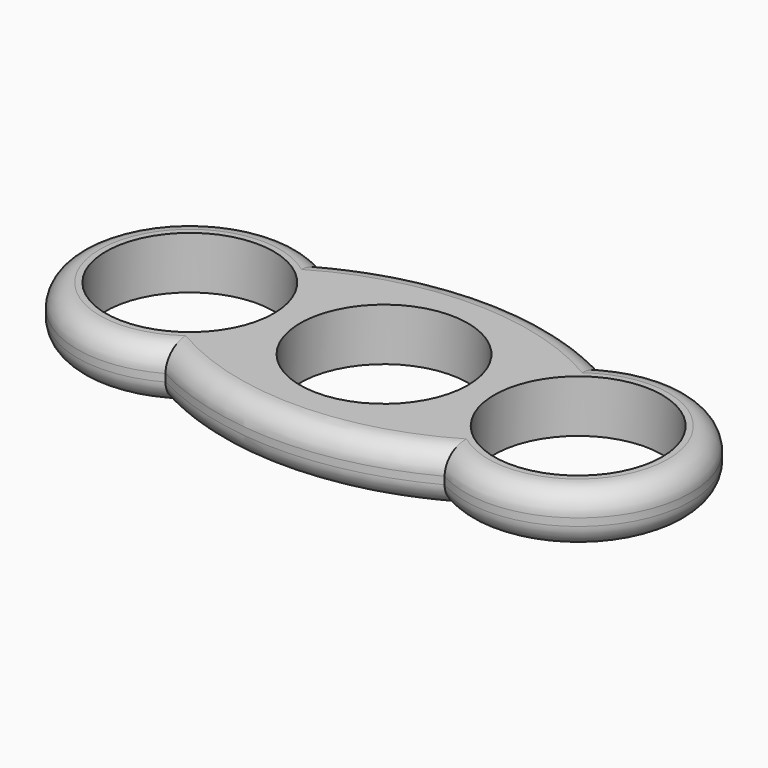
from build123d import *

# Parameters (mm, degrees)
F0_R     = 11.2
F1_DEPTH = 7
F2_R     = 3


with BuildPart() as f1:
    # F0 (on Top) → F1 (new body)
    with BuildSketch(Plane.XY):
        with BuildLine():
            ThreePointArc((18.657643, 13.128337), (0.049973, 17.68379), (-18.54173, 13.063603))
            ThreePointArc((-18.54173, 13.063603), (-40.913305, 0.066382), (-18.657643, -13.128337))
            ThreePointArc((-18.657643, -13.128337), (-0.049973, -17.68379), (18.54173, -13.063603))
            ThreePointArc((18.54173, -13.063603), (40.913305, -0.066382), (18.657643, 13.128337))
        make_face()
        with Locations((-25.913452, 0)):
            Circle(F0_R, mode=Mode.SUBTRACT)
        Circle(F0_R, mode=Mode.SUBTRACT)
        with Locations((25.913452, 0)):
            Circle(F0_R, mode=Mode.SUBTRACT)
    extrude(amount=F1_DEPTH)

    # F2
    f2_edges = [f1.edges().sort_by_distance(p)[0] for p in [
        (0.049973, 17.68379, 7),
        (40.913305, -0.066382, 7),
        (-0.049973, -17.68379, 7),
        (-40.913305, 0.066382, 0),
        (0.049973, 17.68379, 0),
        (40.913305, -0.066382, 0),
        (-0.049973, -17.68379, 0),
        (-40.913305, 0.066382, 7),
    ]]
    fillet(f2_edges, radius=F2_R)


solid = f1.part
